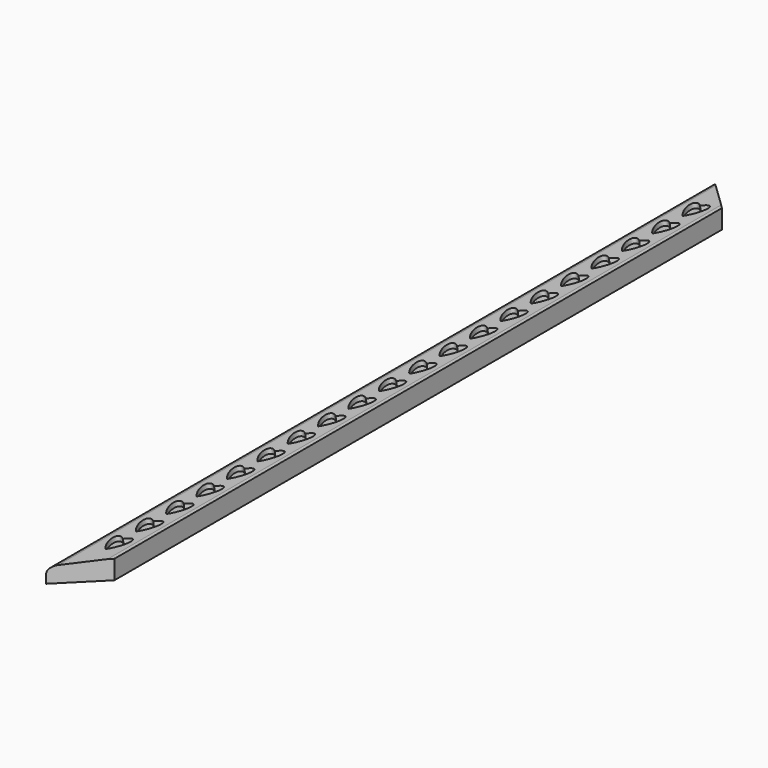
from build123d import *

# Parameters (mm, degrees)
F1_DEPTH = 12.7
F2_SIZE2 = 22.86
F2_SIZE  = 2.54
F3_R     = 5.08
F5_DEPTH = 3.175


with BuildPart() as f1:
    # F0 (on Top) → F1 (new body)
    with BuildSketch(Plane.XY):
        Polygon((12.7, 254), (-12.7, 279.4), (-12.7, -279.4), (12.7, -254), align=None)
    extrude(amount=F1_DEPTH)

    # F2
    f2_edges = [f1.edges().sort_by_distance(p)[0] for p in [
        (-12.7, 0, 12.7),
    ]]
    f2_side = f1.faces().sort_by_distance((-12.7, 0, 6.35))[0]
    chamfer(f2_edges, length=F2_SIZE, length2=F2_SIZE2, reference=f2_side)

    # F3
    f3_edges = [f1.edges().sort_by_distance(p)[0] for p in [
        (-12.7, 0, 10.16),
    ]]
    fillet(f3_edges, radius=F3_R)

    # F4 (on face) → F5 (cut)
    with BuildSketch(Plane(origin=(-1.27, 0, 11.43), x_dir=(0.9938837347, 0, 0.1104315261), z_dir=(-0.1104315261, 0, 0.9938837347))):
        with BuildLine():
            add(Edge.make_bspline(
                [(2.3507496624, 235.7681213447), (8.2215650545, 242.2787030695), (8.1442240866, 249.6415738772), (8.0668831188, 257.004444685), (2.1960677267, 250.4938629602)],
                knots=[4.0439898403, 4.0439898403, 4.0439898403, 5.614786167, 5.614786167, 7.1855824938, 7.1855824938, 7.1855824938], degree=2, weights=[1, 0.7071067812, 1, 0.7071067812, 1]))
            add(Edge.make_bspline(
                [(2.1960677267, 250.4938629602), (-3.7515258206, 256.4894903577), (-3.6741848527, 249.1266195499), (-3.5968438849, 241.7637487422), (2.3507496624, 235.7681213447)],
                knots=[5.403075214, 5.403075214, 5.403075214, 6.9738715408, 6.9738715408, 8.5446678676, 8.5446678676, 8.5446678676], degree=2, weights=[1, 0.7071067812, 1, 0.7071067812, 1]))
        make_face()
        with BuildLine():
            add(Edge.make_bspline(
                [(2.1960677267, 225.0938629602), (-3.7515258206, 231.0894903577), (-3.6741848527, 223.7266195499), (-3.5968438849, 216.3637487422), (2.3507496624, 210.3681213447)],
                knots=[5.403075214, 5.403075214, 5.403075214, 6.9738715408, 6.9738715408, 8.5446678676, 8.5446678676, 8.5446678676], degree=2, weights=[1, 0.7071067812, 1, 0.7071067812, 1]))
            add(Edge.make_bspline(
                [(2.3507496624, 210.3681213447), (8.2215650545, 216.8787030695), (8.1442240866, 224.2415738772), (8.0668831188, 231.604444685), (2.1960677267, 225.0938629602)],
                knots=[4.0439898403, 4.0439898403, 4.0439898403, 5.614786167, 5.614786167, 7.1855824938, 7.1855824938, 7.1855824938], degree=2, weights=[1, 0.7071067812, 1, 0.7071067812, 1]))
        make_face()
        with BuildLine():
            add(Edge.make_bspline(
                [(2.1960677267, 199.6938629602), (-3.7515258206, 205.6894903577), (-3.6741848527, 198.3266195499), (-3.5968438849, 190.9637487422), (2.3507496624, 184.9681213447)],
                knots=[5.403075214, 5.403075214, 5.403075214, 6.9738715408, 6.9738715408, 8.5446678676, 8.5446678676, 8.5446678676], degree=2, weights=[1, 0.7071067812, 1, 0.7071067812, 1]))
            add(Edge.make_bspline(
                [(2.3507496624, 184.9681213447), (8.2215650545, 191.4787030695), (8.1442240866, 198.8415738772), (8.0668831188, 206.204444685), (2.1960677267, 199.6938629602)],
                knots=[4.0439898403, 4.0439898403, 4.0439898403, 5.614786167, 5.614786167, 7.1855824938, 7.1855824938, 7.1855824938], degree=2, weights=[1, 0.7071067812, 1, 0.7071067812, 1]))
        make_face()
        with BuildLine():
            add(Edge.make_bspline(
                [(2.1960677267, 174.2938629602), (-3.7515258206, 180.2894903577), (-3.6741848527, 172.9266195499), (-3.5968438849, 165.5637487422), (2.3507496624, 159.5681213447)],
                knots=[5.403075214, 5.403075214, 5.403075214, 6.9738715408, 6.9738715408, 8.5446678676, 8.5446678676, 8.5446678676], degree=2, weights=[1, 0.7071067812, 1, 0.7071067812, 1]))
            add(Edge.make_bspline(
                [(2.3507496624, 159.5681213447), (8.2215650545, 166.0787030695), (8.1442240866, 173.4415738772), (8.0668831188, 180.804444685), (2.1960677267, 174.2938629602)],
                knots=[4.0439898403, 4.0439898403, 4.0439898403, 5.614786167, 5.614786167, 7.1855824938, 7.1855824938, 7.1855824938], degree=2, weights=[1, 0.7071067812, 1, 0.7071067812, 1]))
        make_face()
        with BuildLine():
            add(Edge.make_bspline(
                [(2.1960677267, 148.8938629602), (-3.7515258206, 154.8894903577), (-3.6741848527, 147.5266195499), (-3.5968438849, 140.1637487422), (2.3507496624, 134.1681213447)],
                knots=[5.403075214, 5.403075214, 5.403075214, 6.9738715408, 6.9738715408, 8.5446678676, 8.5446678676, 8.5446678676], degree=2, weights=[1, 0.7071067812, 1, 0.7071067812, 1]))
            add(Edge.make_bspline(
                [(2.3507496624, 134.1681213447), (8.2215650545, 140.6787030695), (8.1442240866, 148.0415738772), (8.0668831188, 155.404444685), (2.1960677267, 148.8938629602)],
                knots=[4.0439898403, 4.0439898403, 4.0439898403, 5.614786167, 5.614786167, 7.1855824938, 7.1855824938, 7.1855824938], degree=2, weights=[1, 0.7071067812, 1, 0.7071067812, 1]))
        make_face()
        with BuildLine():
            add(Edge.make_bspline(
                [(2.1960677267, 123.4938629602), (-3.7515258206, 129.4894903577), (-3.6741848527, 122.1266195499), (-3.5968438849, 114.7637487422), (2.3507496624, 108.7681213447)],
                knots=[5.403075214, 5.403075214, 5.403075214, 6.9738715408, 6.9738715408, 8.5446678676, 8.5446678676, 8.5446678676], degree=2, weights=[1, 0.7071067812, 1, 0.7071067812, 1]))
            add(Edge.make_bspline(
                [(2.3507496624, 108.7681213447), (8.2215650545, 115.2787030695), (8.1442240866, 122.6415738772), (8.0668831188, 130.004444685), (2.1960677267, 123.4938629602)],
                knots=[4.0439898403, 4.0439898403, 4.0439898403, 5.614786167, 5.614786167, 7.1855824938, 7.1855824938, 7.1855824938], degree=2, weights=[1, 0.7071067812, 1, 0.7071067812, 1]))
        make_face()
        with BuildLine():
            add(Edge.make_bspline(
                [(2.1960677267, 98.0938629602), (-3.7515258206, 104.0894903577), (-3.6741848527, 96.7266195499), (-3.5968438849, 89.3637487422), (2.3507496624, 83.3681213447)],
                knots=[5.403075214, 5.403075214, 5.403075214, 6.9738715408, 6.9738715408, 8.5446678676, 8.5446678676, 8.5446678676], degree=2, weights=[1, 0.7071067812, 1, 0.7071067812, 1]))
            add(Edge.make_bspline(
                [(2.3507496624, 83.3681213447), (8.2215650545, 89.8787030695), (8.1442240866, 97.2415738772), (8.0668831188, 104.604444685), (2.1960677267, 98.0938629602)],
                knots=[4.0439898403, 4.0439898403, 4.0439898403, 5.614786167, 5.614786167, 7.1855824938, 7.1855824938, 7.1855824938], degree=2, weights=[1, 0.7071067812, 1, 0.7071067812, 1]))
        make_face()
        with BuildLine():
            add(Edge.make_bspline(
                [(2.1960677267, 72.6938629602), (-3.7515258206, 78.6894903577), (-3.6741848527, 71.3266195499), (-3.5968438849, 63.9637487422), (2.3507496624, 57.9681213447)],
                knots=[5.403075214, 5.403075214, 5.403075214, 6.9738715408, 6.9738715408, 8.5446678676, 8.5446678676, 8.5446678676], degree=2, weights=[1, 0.7071067812, 1, 0.7071067812, 1]))
            add(Edge.make_bspline(
                [(2.3507496624, 57.9681213447), (8.2215650545, 64.4787030695), (8.1442240866, 71.8415738772), (8.0668831188, 79.204444685), (2.1960677267, 72.6938629602)],
                knots=[4.0439898403, 4.0439898403, 4.0439898403, 5.614786167, 5.614786167, 7.1855824938, 7.1855824938, 7.1855824938], degree=2, weights=[1, 0.7071067812, 1, 0.7071067812, 1]))
        make_face()
        with BuildLine():
            add(Edge.make_bspline(
                [(2.1960677267, 47.2938629602), (-3.7515258206, 53.2894903577), (-3.6741848527, 45.9266195499), (-3.5968438849, 38.5637487422), (2.3507496624, 32.5681213447)],
                knots=[5.403075214, 5.403075214, 5.403075214, 6.9738715408, 6.9738715408, 8.5446678676, 8.5446678676, 8.5446678676], degree=2, weights=[1, 0.7071067812, 1, 0.7071067812, 1]))
            add(Edge.make_bspline(
                [(2.3507496624, 32.5681213447), (8.2215650545, 39.0787030695), (8.1442240866, 46.4415738772), (8.0668831188, 53.804444685), (2.1960677267, 47.2938629602)],
                knots=[4.0439898403, 4.0439898403, 4.0439898403, 5.614786167, 5.614786167, 7.1855824938, 7.1855824938, 7.1855824938], degree=2, weights=[1, 0.7071067812, 1, 0.7071067812, 1]))
        make_face()
        with BuildLine():
            add(Edge.make_bspline(
                [(2.1960677267, 21.8938629602), (-3.7515258206, 27.8894903577), (-3.6741848527, 20.5266195499), (-3.5968438849, 13.1637487422), (2.3507496624, 7.1681213447)],
                knots=[5.403075214, 5.403075214, 5.403075214, 6.9738715408, 6.9738715408, 8.5446678676, 8.5446678676, 8.5446678676], degree=2, weights=[1, 0.7071067812, 1, 0.7071067812, 1]))
            add(Edge.make_bspline(
                [(2.3507496624, 7.1681213447), (8.2215650545, 13.6787030695), (8.1442240866, 21.0415738772), (8.0668831188, 28.404444685), (2.1960677267, 21.8938629602)],
                knots=[4.0439898403, 4.0439898403, 4.0439898403, 5.614786167, 5.614786167, 7.1855824938, 7.1855824938, 7.1855824938], degree=2, weights=[1, 0.7071067812, 1, 0.7071067812, 1]))
        make_face()
        with BuildLine():
            add(Edge.make_bspline(
                [(2.1960677267, -3.5061370398), (-3.7515258206, 2.4894903577), (-3.6741848527, -4.8733804501), (-3.5968438849, -12.2362512578), (2.3507496624, -18.2318786553)],
                knots=[5.403075214, 5.403075214, 5.403075214, 6.9738715408, 6.9738715408, 8.5446678676, 8.5446678676, 8.5446678676], degree=2, weights=[1, 0.7071067812, 1, 0.7071067812, 1]))
            add(Edge.make_bspline(
                [(2.3507496624, -18.2318786553), (8.2215650545, -11.7212969305), (8.1442240866, -4.3584261228), (8.0668831188, 3.004444685), (2.1960677267, -3.5061370398)],
                knots=[4.0439898403, 4.0439898403, 4.0439898403, 5.614786167, 5.614786167, 7.1855824938, 7.1855824938, 7.1855824938], degree=2, weights=[1, 0.7071067812, 1, 0.7071067812, 1]))
        make_face()
        with BuildLine():
            add(Edge.make_bspline(
                [(2.1960677267, -28.9061370398), (-3.7515258206, -22.9105096423), (-3.6741848527, -30.2733804501), (-3.5968438849, -37.6362512578), (2.3507496624, -43.6318786553)],
                knots=[5.403075214, 5.403075214, 5.403075214, 6.9738715408, 6.9738715408, 8.5446678676, 8.5446678676, 8.5446678676], degree=2, weights=[1, 0.7071067812, 1, 0.7071067812, 1]))
            add(Edge.make_bspline(
                [(2.3507496624, -43.6318786553), (8.2215650545, -37.1212969305), (8.1442240866, -29.7584261228), (8.0668831188, -22.395555315), (2.1960677267, -28.9061370398)],
                knots=[4.0439898403, 4.0439898403, 4.0439898403, 5.614786167, 5.614786167, 7.1855824938, 7.1855824938, 7.1855824938], degree=2, weights=[1, 0.7071067812, 1, 0.7071067812, 1]))
        make_face()
        with BuildLine():
            add(Edge.make_bspline(
                [(2.1960677267, -54.3061370398), (-3.7515258206, -48.3105096423), (-3.6741848527, -55.6733804501), (-3.5968438849, -63.0362512578), (2.3507496624, -69.0318786553)],
                knots=[5.403075214, 5.403075214, 5.403075214, 6.9738715408, 6.9738715408, 8.5446678676, 8.5446678676, 8.5446678676], degree=2, weights=[1, 0.7071067812, 1, 0.7071067812, 1]))
            add(Edge.make_bspline(
                [(2.3507496624, -69.0318786553), (8.2215650545, -62.5212969305), (8.1442240866, -55.1584261228), (8.0668831188, -47.795555315), (2.1960677267, -54.3061370398)],
                knots=[4.0439898403, 4.0439898403, 4.0439898403, 5.614786167, 5.614786167, 7.1855824938, 7.1855824938, 7.1855824938], degree=2, weights=[1, 0.7071067812, 1, 0.7071067812, 1]))
        make_face()
        with BuildLine():
            add(Edge.make_bspline(
                [(2.1960677267, -79.7061370398), (-3.7515258206, -73.7105096423), (-3.6741848527, -81.0733804501), (-3.5968438849, -88.4362512578), (2.3507496624, -94.4318786553)],
                knots=[5.403075214, 5.403075214, 5.403075214, 6.9738715408, 6.9738715408, 8.5446678676, 8.5446678676, 8.5446678676], degree=2, weights=[1, 0.7071067812, 1, 0.7071067812, 1]))
            add(Edge.make_bspline(
                [(2.3507496624, -94.4318786553), (8.2215650545, -87.9212969305), (8.1442240866, -80.5584261228), (8.0668831188, -73.195555315), (2.1960677267, -79.7061370398)],
                knots=[4.0439898403, 4.0439898403, 4.0439898403, 5.614786167, 5.614786167, 7.1855824938, 7.1855824938, 7.1855824938], degree=2, weights=[1, 0.7071067812, 1, 0.7071067812, 1]))
        make_face()
        with BuildLine():
            add(Edge.make_bspline(
                [(2.1960677267, -105.1061370398), (-3.7515258206, -99.1105096423), (-3.6741848527, -106.4733804501), (-3.5968438849, -113.8362512578), (2.3507496624, -119.8318786553)],
                knots=[5.403075214, 5.403075214, 5.403075214, 6.9738715408, 6.9738715408, 8.5446678676, 8.5446678676, 8.5446678676], degree=2, weights=[1, 0.7071067812, 1, 0.7071067812, 1]))
            add(Edge.make_bspline(
                [(2.3507496624, -119.8318786553), (8.2215650545, -113.3212969305), (8.1442240866, -105.9584261228), (8.0668831188, -98.595555315), (2.1960677267, -105.1061370398)],
                knots=[4.0439898403, 4.0439898403, 4.0439898403, 5.614786167, 5.614786167, 7.1855824938, 7.1855824938, 7.1855824938], degree=2, weights=[1, 0.7071067812, 1, 0.7071067812, 1]))
        make_face()
        with BuildLine():
            add(Edge.make_bspline(
                [(2.1960677267, -130.5061370398), (-3.7515258206, -124.5105096423), (-3.6741848527, -131.8733804501), (-3.5968438849, -139.2362512578), (2.3507496624, -145.2318786553)],
                knots=[5.403075214, 5.403075214, 5.403075214, 6.9738715408, 6.9738715408, 8.5446678676, 8.5446678676, 8.5446678676], degree=2, weights=[1, 0.7071067812, 1, 0.7071067812, 1]))
            add(Edge.make_bspline(
                [(2.3507496624, -145.2318786553), (8.2215650545, -138.7212969305), (8.1442240866, -131.3584261228), (8.0668831188, -123.995555315), (2.1960677267, -130.5061370398)],
                knots=[4.0439898403, 4.0439898403, 4.0439898403, 5.614786167, 5.614786167, 7.1855824938, 7.1855824938, 7.1855824938], degree=2, weights=[1, 0.7071067812, 1, 0.7071067812, 1]))
        make_face()
        with BuildLine():
            add(Edge.make_bspline(
                [(2.1960677267, -155.9061370398), (-3.7515258206, -149.9105096423), (-3.6741848527, -157.2733804501), (-3.5968438849, -164.6362512578), (2.3507496624, -170.6318786553)],
                knots=[5.403075214, 5.403075214, 5.403075214, 6.9738715408, 6.9738715408, 8.5446678676, 8.5446678676, 8.5446678676], degree=2, weights=[1, 0.7071067812, 1, 0.7071067812, 1]))
            add(Edge.make_bspline(
                [(2.3507496624, -170.6318786553), (8.2215650545, -164.1212969305), (8.1442240866, -156.7584261228), (8.0668831188, -149.395555315), (2.1960677267, -155.9061370398)],
                knots=[4.0439898403, 4.0439898403, 4.0439898403, 5.614786167, 5.614786167, 7.1855824938, 7.1855824938, 7.1855824938], degree=2, weights=[1, 0.7071067812, 1, 0.7071067812, 1]))
        make_face()
        with BuildLine():
            add(Edge.make_bspline(
                [(2.1960677267, -181.3061370398), (-3.7515258206, -175.3105096423), (-3.6741848527, -182.6733804501), (-3.5968438849, -190.0362512578), (2.3507496624, -196.0318786553)],
                knots=[5.403075214, 5.403075214, 5.403075214, 6.9738715408, 6.9738715408, 8.5446678676, 8.5446678676, 8.5446678676], degree=2, weights=[1, 0.7071067812, 1, 0.7071067812, 1]))
            add(Edge.make_bspline(
                [(2.3507496624, -196.0318786553), (8.2215650545, -189.5212969305), (8.1442240866, -182.1584261228), (8.0668831188, -174.795555315), (2.1960677267, -181.3061370398)],
                knots=[4.0439898403, 4.0439898403, 4.0439898403, 5.614786167, 5.614786167, 7.1855824938, 7.1855824938, 7.1855824938], degree=2, weights=[1, 0.7071067812, 1, 0.7071067812, 1]))
        make_face()
        with BuildLine():
            add(Edge.make_bspline(
                [(2.1960677267, -206.7061370398), (-3.7515258206, -200.7105096423), (-3.6741848527, -208.0733804501), (-3.5968438849, -215.4362512578), (2.3507496624, -221.4318786553)],
                knots=[5.403075214, 5.403075214, 5.403075214, 6.9738715408, 6.9738715408, 8.5446678676, 8.5446678676, 8.5446678676], degree=2, weights=[1, 0.7071067812, 1, 0.7071067812, 1]))
            add(Edge.make_bspline(
                [(2.3507496624, -221.4318786553), (8.2215650545, -214.9212969305), (8.1442240866, -207.5584261228), (8.0668831188, -200.195555315), (2.1960677267, -206.7061370398)],
                knots=[4.0439898403, 4.0439898403, 4.0439898403, 5.614786167, 5.614786167, 7.1855824938, 7.1855824938, 7.1855824938], degree=2, weights=[1, 0.7071067812, 1, 0.7071067812, 1]))
        make_face()
        with BuildLine():
            add(Edge.make_bspline(
                [(2.1960677267, -232.1061370398), (-3.7515258206, -226.1105096423), (-3.6741848527, -233.4733804501), (-3.5968438849, -240.8362512578), (2.3507496624, -246.8318786553)],
                knots=[5.403075214, 5.403075214, 5.403075214, 6.9738715408, 6.9738715408, 8.5446678676, 8.5446678676, 8.5446678676], degree=2, weights=[1, 0.7071067812, 1, 0.7071067812, 1]))
            add(Edge.make_bspline(
                [(2.3507496624, -246.8318786553), (8.2215650545, -240.3212969305), (8.1442240866, -232.9584261228), (8.0668831188, -225.595555315), (2.1960677267, -232.1061370398)],
                knots=[4.0439898403, 4.0439898403, 4.0439898403, 5.614786167, 5.614786167, 7.1855824938, 7.1855824938, 7.1855824938], degree=2, weights=[1, 0.7071067812, 1, 0.7071067812, 1]))
        make_face()
    extrude(amount=-F5_DEPTH, mode=Mode.SUBTRACT)


solid = f1.part
